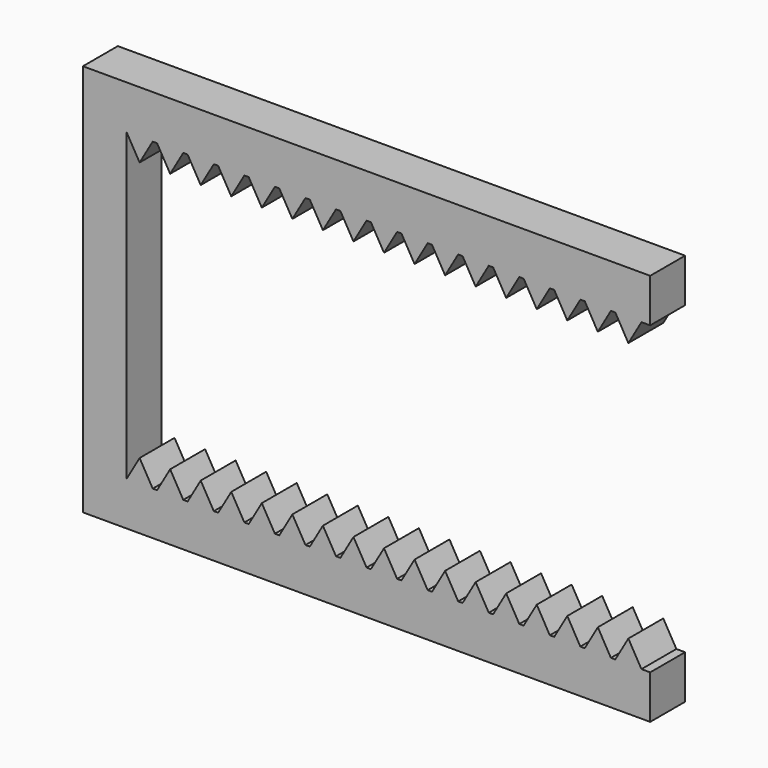
from build123d import *

# Parameters (mm, degrees)
F1_DEPTH = 12.7


with BuildPart() as f1:
    # F0 (on Front) → F1 (new body)
    with BuildSketch(Plane.XZ):
        Polygon((-49.171232, -6.599114), (-49.171232, 82.300886), (-41.551232, 82.300886), (-40.281232, 82.300886), (-32.661232, 82.300886), (-31.391232, 82.300886), (-23.771232, 82.300886), (-22.501232, 82.300886), (-14.881232, 82.300886), (-13.611232, 82.300886), (-5.991232, 82.300886), (-4.721232, 82.300886), (2.898768, 82.300886), (4.168768, 82.300886), (11.788768, 82.300886), (13.058768, 82.300886), (20.678768, 82.300886), (21.948768, 82.300886), (29.568768, 82.300886), (30.838768, 82.300886), (38.458768, 82.300886), (39.728768, 82.300886), (47.348768, 82.300886), (48.618768, 82.300886), (56.238768, 82.300886), (57.508768, 82.300886), (65.128768, 82.300886), (66.398768, 82.300886), (74.018768, 82.300886), (75.288768, 82.300886), (82.908768, 82.300886), (84.178768, 82.300886), (91.798768, 82.300886), (93.068768, 82.300886), (100.688768, 82.300886), (103.228768, 82.300886), (103.228768, 95.000886), (-61.871232, 95.000886), (-61.871232, -19.299114), (81.130768, -19.299114), (103.228768, -19.299114), (103.228768, -6.599114), (100.688768, -6.599114), (93.068768, -6.599114), (91.798768, -6.599114), (84.178768, -6.599114), (82.908768, -6.599114), (75.288768, -6.599114), (74.018768, -6.599114), (66.398768, -6.599114), (65.128768, -6.599114), (57.508768, -6.599114), (56.238768, -6.599114), (48.618768, -6.599114), (47.348768, -6.599114), (39.728768, -6.599114), (38.458768, -6.599114), (30.838768, -6.599114), (29.568768, -6.599114), (21.948768, -6.599114), (20.678768, -6.599114), (13.058768, -6.599114), (11.788768, -6.599114), (4.168768, -6.599114), (2.898768, -6.599114), (-4.721232, -6.599114), (-5.991232, -6.599114), (-13.611232, -6.599114), (-14.881232, -6.599114), (-22.501232, -6.599114), (-23.771232, -6.599114), (-31.391232, -6.599114), (-32.661232, -6.599114), (-40.281232, -6.599114), (-41.551232, -6.599114), align=None)
        Polygon((-41.551232, 82.300886), (-49.171232, 82.300886), (-45.361232, 75.701773), align=None)
        Polygon((-45.361232, 0), (-49.171232, -6.599114), (-41.551232, -6.599114), align=None)
        Polygon((-32.661232, 82.300886), (-40.281232, 82.300886), (-36.471232, 75.701773), align=None)
        Polygon((-36.471232, 0), (-40.281232, -6.599114), (-32.661232, -6.599114), align=None)
        Polygon((-23.771232, 82.300886), (-31.391232, 82.300886), (-27.581232, 75.701773), align=None)
        Polygon((-27.581232, 0), (-31.391232, -6.599114), (-23.771232, -6.599114), align=None)
        Polygon((-14.881232, 82.300886), (-22.501232, 82.300886), (-18.691232, 75.701773), align=None)
        Polygon((-18.691232, 0), (-22.501232, -6.599114), (-14.881232, -6.599114), align=None)
        Polygon((-5.991232, 82.300886), (-13.611232, 82.300886), (-9.801232, 75.701773), align=None)
        Polygon((-9.801232, 0), (-13.611232, -6.599114), (-5.991232, -6.599114), align=None)
        Polygon((2.898768, 82.300886), (-4.721232, 82.300886), (-0.911232, 75.701773), align=None)
        Polygon((-0.911232, 0), (-4.721232, -6.599114), (2.898768, -6.599114), align=None)
        Polygon((11.788768, 82.300886), (4.168768, 82.300886), (7.978768, 75.701773), align=None)
        Polygon((7.978768, 0), (4.168768, -6.599114), (11.788768, -6.599114), align=None)
        Polygon((20.678768, 82.300886), (13.058768, 82.300886), (16.868768, 75.701773), align=None)
        Polygon((16.868768, 0), (13.058768, -6.599114), (20.678768, -6.599114), align=None)
        Polygon((29.568768, 82.300886), (21.948768, 82.300886), (25.758768, 75.701773), align=None)
        Polygon((25.758768, 0), (21.948768, -6.599114), (29.568768, -6.599114), align=None)
        Polygon((38.458768, 82.300886), (30.838768, 82.300886), (34.648768, 75.701773), align=None)
        Polygon((34.648768, 0), (30.838768, -6.599114), (38.458768, -6.599114), align=None)
        Polygon((47.348768, 82.300886), (39.728768, 82.300886), (43.538768, 75.701773), align=None)
        Polygon((43.538768, 0), (39.728768, -6.599114), (47.348768, -6.599114), align=None)
        Polygon((56.238768, 82.300886), (48.618768, 82.300886), (52.428768, 75.701773), align=None)
        Polygon((52.428768, 0), (48.618768, -6.599114), (56.238768, -6.599114), align=None)
        Polygon((65.128768, 82.300886), (57.508768, 82.300886), (61.318768, 75.701773), align=None)
        Polygon((61.318768, 0), (57.508768, -6.599114), (65.128768, -6.599114), align=None)
        Polygon((74.018768, 82.300886), (66.398768, 82.300886), (70.208768, 75.701773), align=None)
        Polygon((70.208768, 0), (66.398768, -6.599114), (74.018768, -6.599114), align=None)
        Polygon((82.908768, 82.300886), (75.288768, 82.300886), (79.098768, 75.701773), align=None)
        Polygon((79.098768, 0), (75.288768, -6.599114), (82.908768, -6.599114), align=None)
        Polygon((91.798768, 82.300886), (84.178768, 82.300886), (87.988768, 75.701773), align=None)
        Polygon((87.988768, 0), (84.178768, -6.599114), (91.798768, -6.599114), align=None)
        Polygon((100.688768, 82.300886), (93.068768, 82.300886), (96.878768, 75.701773), align=None)
        Polygon((96.878768, 0), (93.068768, -6.599114), (100.688768, -6.599114), align=None)
    extrude(amount=F1_DEPTH)


solid = f1.part
